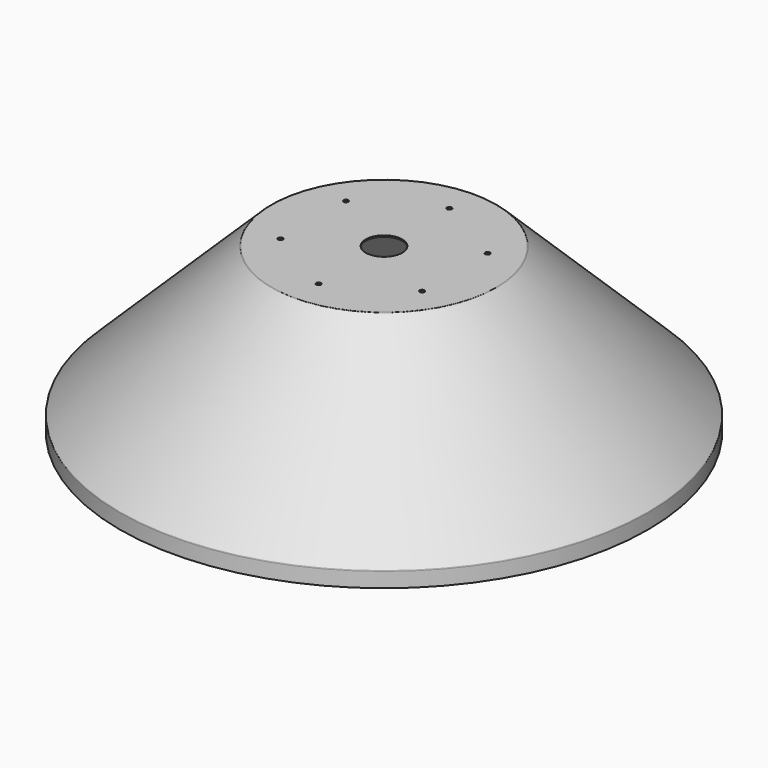
from build123d import *

# Parameters (mm, degrees)
F2_R     = 5
F3_DEPTH = 1.5
F4_R     = 20
F5_DEPTH = 179.501
F6_R     = 2.6
F7_DEPTH = 179.501


with BuildPart() as f1:
    # F0 (on Front) → F1 (revolve)
    with BuildSketch(Plane.XZ):
        with BuildLine():
            Line((288, 16), (288, 0))
            Line((288, 0), (289.5, 0))
            Line((289.5, 0), (289.5, 16.210244))
            ThreePointArc((289.5, 16.210244), (289.421822, 16.597858), (289.19951, 16.924867))
            Line((289.19951, 16.924867), (123.403494, 179.214623))
            ThreePointArc((123.403494, 179.214623), (123.081725, 179.425911), (122.703984, 179.5))
            Line((122.703984, 179.5), (0, 179.5))
            Line((0, 179.5), (0, 178))
            Line((0, 178), (122.5, 178))
            Line((122.5, 178), (288, 16))
        make_face()
    revolve(axis=Axis((0, 0, 89), (0, 0, 1)))

    # F2 (on face) → F3 (cut, through all)
    with BuildSketch(Plane.XY.offset(179.5)):
        Circle(F2_R)
    extrude(amount=-F3_DEPTH, mode=Mode.SUBTRACT)

    # F4 (on face) → F5 (cut, through all)
    with BuildSketch(Plane.XY.offset(179.5)):
        Circle(F4_R)
    extrude(amount=-F5_DEPTH, mode=Mode.SUBTRACT)

    # F6 (on face) → F7 (cut, through all)
    with BuildSketch(Plane.XY.offset(179.5)):
        with Locations((0, 89.65)):
            Circle(F6_R)
        with Locations((-77.639177, 44.825)):
            Circle(F6_R)
        with Locations((-77.639177, -44.825)):
            Circle(F6_R)
        with Locations((0, -89.65)):
            Circle(F6_R)
        with Locations((77.639177, -44.825)):
            Circle(F6_R)
        with Locations((77.639177, 44.825)):
            Circle(F6_R)
    extrude(amount=-F7_DEPTH, mode=Mode.SUBTRACT)


solid = f1.part
